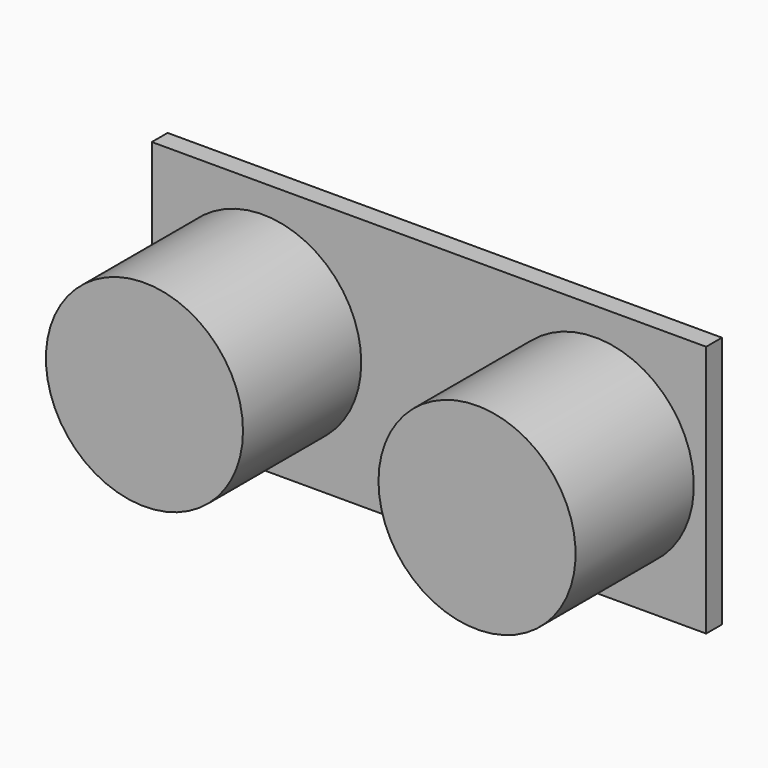
from build123d import *

# Parameters (mm, degrees)
F0_W     = 45
F0_H     = 20.5
F1_DEPTH = 1.6
F2_R     = 8
F3_DEPTH = 12


with BuildPart() as f1:
    # F0 (on Front) → F1 (new body)
    with BuildSketch(Plane.XZ):
        with Locations((-3e-06, 1.451923)):
            Rectangle(F0_W, F0_H)
    extrude(amount=F1_DEPTH)

    # F2 (on face) → F3 (join)
    with BuildSketch(Plane.XZ.offset(1.6)):
        with Locations((-13.5, 1.451923)):
            Circle(F2_R)
        with BuildLine():
            ThreePointArc((21.5, 1.451923), (13.5, 9.451923), (5.5, 1.451923))
            ThreePointArc((5.5, 1.451923), (13.5, -6.548077), (21.5, 1.451923))
        make_face()
    extrude(amount=F3_DEPTH)


solid = f1.part
